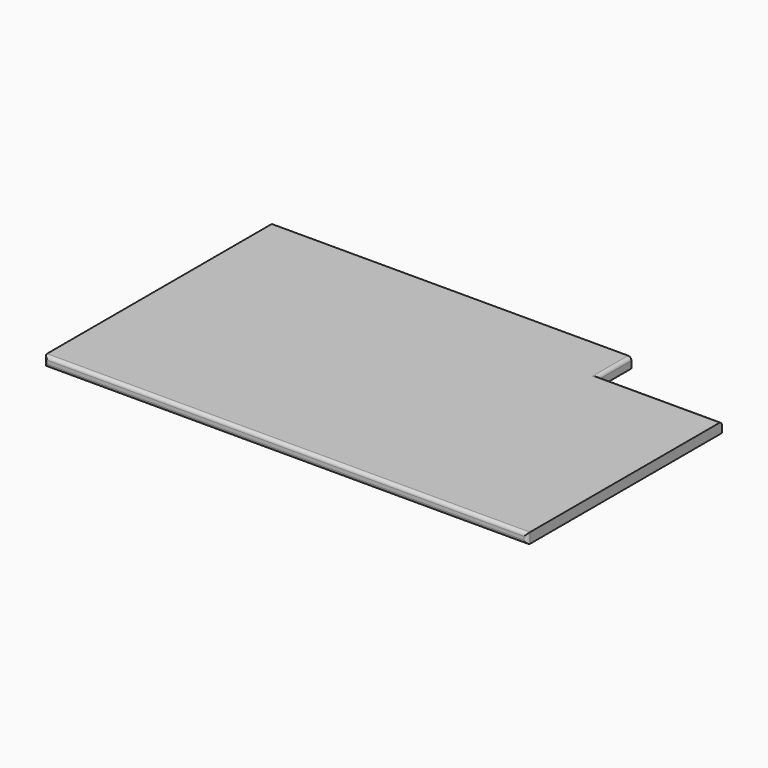
from build123d import *

# Parameters (mm, degrees)
F1_DEPTH = 19.05
F2_R     = 6.35


with BuildPart() as f1:
    # F0 (on Top) → F1 (new body)
    with BuildSketch(Plane.XY):
        Polygon((-447.675, -263.525), (447.675, -263.525), (447.675, 187.325), (219.075, 187.325), (219.075, 263.525), (-447.675, 263.525), align=None)
    extrude(amount=F1_DEPTH)

    # F2
    f2_edges = [f1.edges().sort_by_distance(p)[0] for p in [
        (0, -263.525, 19.05),
        (0, -263.525, 0),
        (-447.675, -263.525, 9.525),
        (447.675, -263.525, 9.525),
        (219.075, 225.425, 19.05),
        (333.375, 187.325, 19.05),
    ]]
    fillet(f2_edges, radius=F2_R)


solid = f1.part
